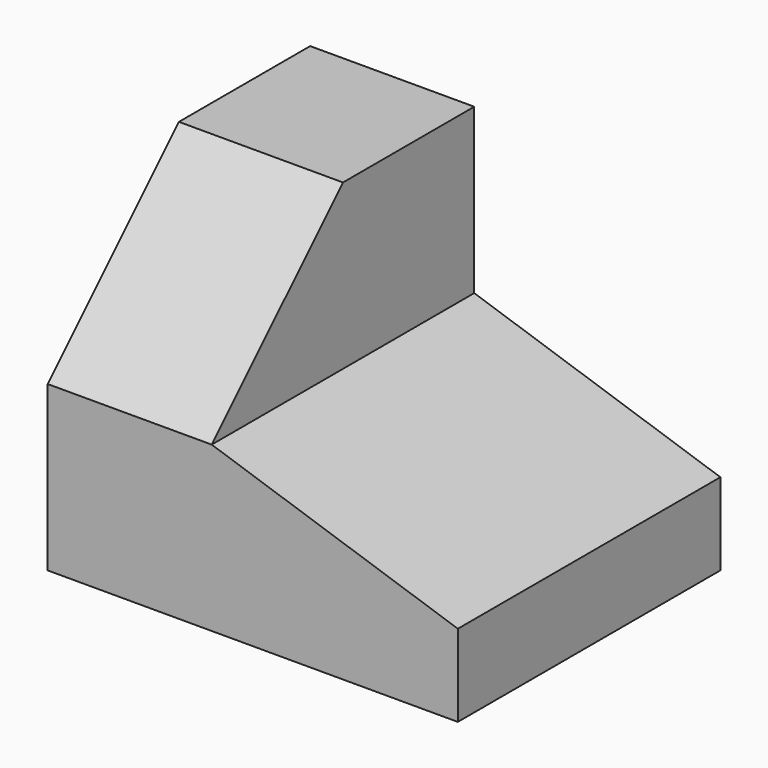
from build123d import *

# Parameters (mm, degrees)
F0_W     = 5
F0_H     = 4
F1_DEPTH = 2
F3_DEPTH = 25
F4_W     = 2
F4_H     = 4
F5_DEPTH = 2
F7_DEPTH = 25


with BuildPart() as f1:
    # F0 (on Top) → F1 (new body)
    with BuildSketch(Plane.XY):
        with Locations((2.5, 2)):
            Rectangle(F0_W, F0_H)
    extrude(amount=F1_DEPTH)

    # F2 (on face) → F3 (cut)
    with BuildSketch(Plane.XZ):
        Polygon((5, 1), (5, 2), (2, 2), align=None)
    extrude(amount=-F3_DEPTH, mode=Mode.SUBTRACT)

    # F4 (on face) → F5 (join)
    with BuildSketch(Plane.XY.offset(2)):
        with Locations((1, 2)):
            Rectangle(F4_W, F4_H)
    extrude(amount=F5_DEPTH)

    # F6 (on face) → F7 (cut)
    with BuildSketch(Plane(origin=(0, 0, 0), x_dir=(0, -1, 0), z_dir=(-1, 0, 0))):
        Polygon((0, 4), (-2, 4), (0, 2), align=None)
    extrude(amount=-F7_DEPTH, mode=Mode.SUBTRACT)


solid = f1.part
